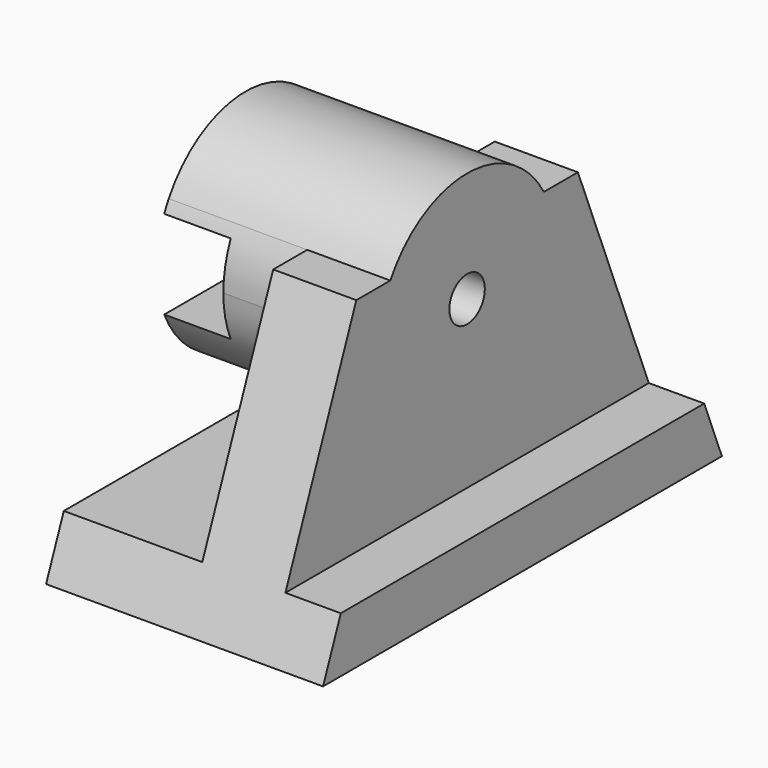
from build123d import *

# Parameters (mm, degrees)
F0_W          = 50
F0_H          = 10
F1_DEPTH      = 25
F2_DEPTH      = 15
F3_DEPTH      = 15
F3_DEPTH_BACK = 25
F5_DEPTH      = 12
F6_D          = 8
F7_W          = 19
F7_H          = 12
F8_DEPTH      = 25


with BuildPart() as f1:
    # F0 (on Right) → F1 (new body, symmetric)
    with BuildSketch(Plane.YZ):
        Polygon((41, -15), (25, -15), (25, -25), (45, -25), align=None)
        with Locations((0, -20)):
            Rectangle(F0_W, F0_H)
        Polygon((-25, -15), (-41, -15), (-45, -25), (-25, -25), align=None)
    extrude(amount=F1_DEPTH, both=True)

    # F0 (on Right) → F2 (join)
    with BuildSketch(Plane.YZ):
        with BuildLine():
            Line((-20, 15), (-25, 15))
            Line((-25, 15), (-25, -15))
            Line((-25, -15), (25, -15))
            Line((25, -15), (25, 15))
            Line((25, 15), (20, 15))
            ThreePointArc((20, 15), (0, -5), (-20, 15))
        make_face()
        Polygon((41, -15), (25, 25), (25, 15), (25, -15), align=None)
        Polygon((-25, 15), (-25, 25), (-41, -15), (-25, -15), align=None)
        with BuildLine():
            Line((-17.3205080757, 25), (-25, 25))
            Line((-25, 25), (-25, 15))
            Line((-25, 15), (-20, 15))
            ThreePointArc((-20, 15), (-19.3185165258, 20.1763809021), (-17.3205080757, 25))
        make_face()
        with BuildLine():
            Line((25, 25), (17.3205080757, 25))
            ThreePointArc((17.3205080757, 25), (19.3185165258, 20.1763809021), (20, 15))
            Line((20, 15), (25, 15))
            Line((25, 15), (25, 25))
        make_face()
    extrude(amount=F2_DEPTH)

    # F0 (on Right) → F3 (join, two sides)
    with BuildSketch(Plane.YZ) as f3_sk:
        with BuildLine():
            ThreePointArc((17.3205080757, 25), (0, 35), (-17.3205080757, 25))
            Line((-17.3205080757, 25), (17.3205080757, 25))
        make_face()
        with BuildLine():
            Line((17.3205080757, 25), (-17.3205080757, 25))
            ThreePointArc((-17.3205080757, 25), (-19.3185165258, 20.1763809021), (-20, 15))
            Line((-20, 15), (20, 15))
            ThreePointArc((20, 15), (19.3185165258, 20.1763809021), (17.3205080757, 25))
        make_face()
        with BuildLine():
            Line((20, 15), (-20, 15))
            ThreePointArc((-20, 15), (0, -5), (20, 15))
        make_face()
    extrude(amount=F3_DEPTH)
    extrude(f3_sk.sketch, amount=-F3_DEPTH_BACK)

    # F4 (on face) → F5 (cut)
    with BuildSketch(Plane(origin=(-25, 0, 0), x_dir=(0, -1, 0), z_dir=(-1, 0, 0))):
        with BuildLine():
            ThreePointArc((20, 15), (19.5781262586, 19.0861928738), (18.3303027798, 23))
            Line((18.3303027798, 23), (-18.3303027798, 23))
            ThreePointArc((-18.3303027798, 23), (-19.5781262586, 19.0861928738), (-20, 15))
            Line((-20, 15), (20, 15))
        make_face()
        with BuildLine():
            ThreePointArc((18.3303027798, 7), (19.5781262586, 10.9138071262), (20, 15))
            Line((20, 15), (-20, 15))
            ThreePointArc((-20, 15), (-19.5781262586, 10.9138071262), (-18.3303027798, 7))
            Line((-18.3303027798, 7), (18.3303027798, 7))
        make_face()
    extrude(amount=-F5_DEPTH, mode=Mode.SUBTRACT)

    # F6 (through all)
    with Locations(Plane(origin=(-25, 0, 0), x_dir=(0, -1, 0), z_dir=(-1, 0, 0))):
        with Locations((0, 15)):
            Hole(F6_D / 2)

    # F7 (on Top) → F8 (join)
    with BuildSketch(Plane.XY):
        with Locations((-9.5, 0)):
            Rectangle(F7_W, F7_H)
    extrude(amount=-F8_DEPTH)


solid = f1.part
